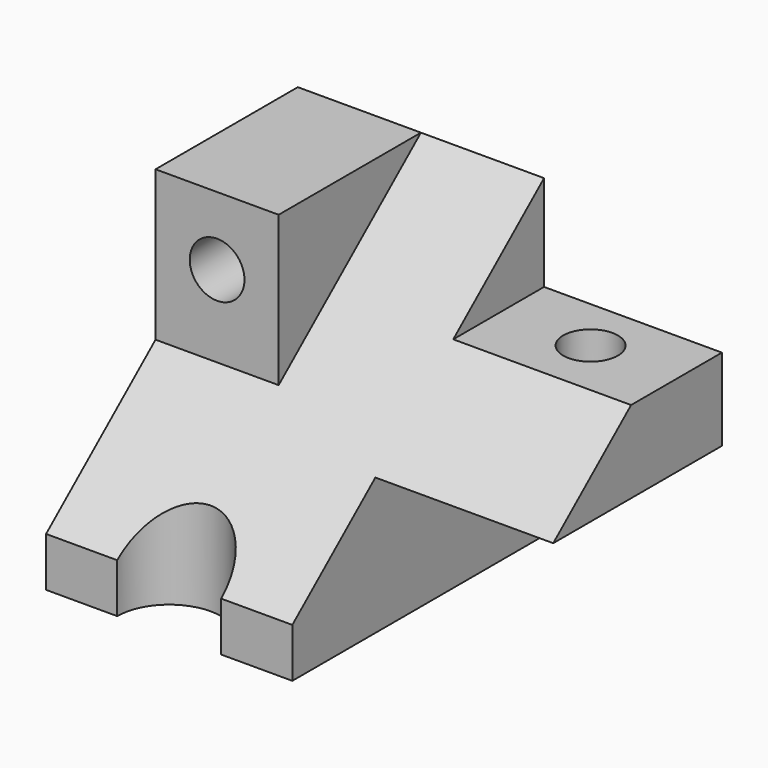
from build123d import *

# Parameters (mm, degrees)
F1_DEPTH = 77.5
F2_W     = 65
F2_H     = 35
F2_H_2   = 50
F3_DEPTH = 100
F4_R     = 19
F4_R_2   = 10
F5_DEPTH = 160.94138
F7_DEPTH = 45
F8_R     = 10
F9_DEPTH = 65


with BuildPart() as f1:
    # F0 (on Right) → F1 (new body, symmetric)
    with BuildSketch(Plane.YZ):
        Polygon((-57.5, 0), (57.5, 0), (57.5, 115), (-57.5, 18), align=None)
    extrude(amount=F1_DEPTH, both=True)

    # F2 (on Front) → F3 (cut, symmetric)
    with BuildSketch(Plane.XZ):
        with Locations((45, 97.5)):
            Rectangle(F2_W, F2_H)
        with Locations((45, 25)):
            Rectangle(F2_W, F2_H_2)
    extrude(amount=F3_DEPTH, both=True, mode=Mode.SUBTRACT)

    # F4 (on Top) → F5 (cut)
    with BuildSketch(Plane.XY):
        with Locations((-32.5, -57.5)):
            Circle(F4_R)
        with Locations((45.5, 37.5)):
            Circle(F4_R_2)
    extrude(amount=F5_DEPTH, mode=Mode.SUBTRACT)

    # F6 (on face) → F7 (join)
    with BuildSketch(Plane(origin=(-77.5, 0, 0), x_dir=(0, -1, 0), z_dir=(-1, 0, 0))):
        Polygon((7.5, 115), (-57.5, 115), (7.5, 60.1739130435), align=None)
    extrude(amount=-F7_DEPTH)

    # F8 (on face) → F9 (cut, through all)
    with BuildSketch(Plane.XZ.offset(7.5)):
        with Locations((-55, 90)):
            Circle(F8_R)
    extrude(amount=-F9_DEPTH, mode=Mode.SUBTRACT)


solid = f1.part
